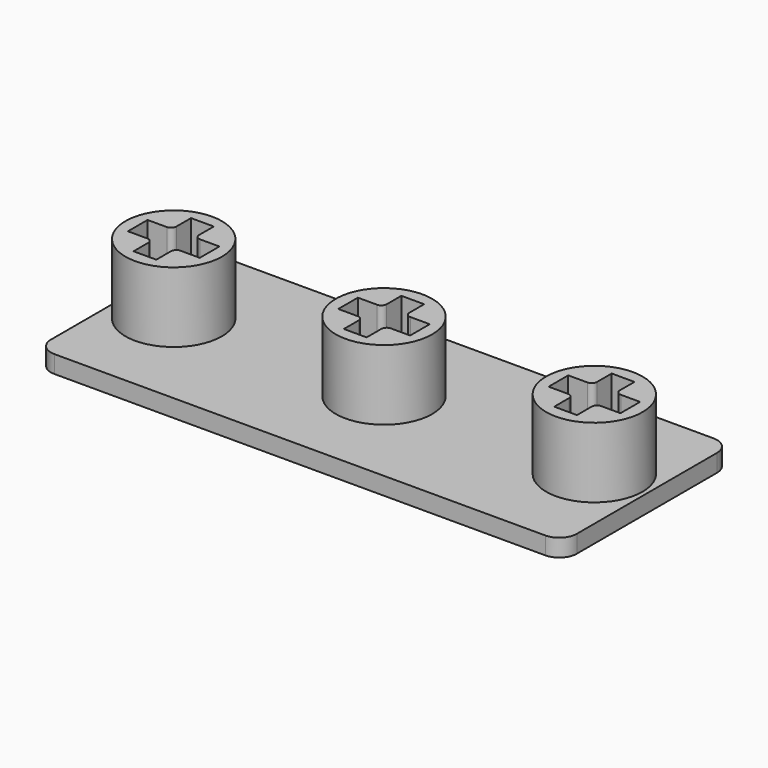
from build123d import *

# Parameters (mm, degrees)
SKETCH_W     = 30
SKETCH_H     = 12
PAD_DEPTH    = 1
SKETCH001_R  = 2.75
PAD001_DEPTH = 4
POCKET_DEPTH = 4
FILLET_R     = 0.3
FILLET001_R  = 1


with BuildPart() as part:
    # Sketch → Pad (new body)
    with BuildSketch(Plane.XY):
        Rectangle(SKETCH_W, SKETCH_H)
    extrude(amount=PAD_DEPTH)

    # Sketch001 (on Face6 of Pad) → Pad001 (join)
    with BuildSketch(Plane.XY.offset(1)):
        Circle(SKETCH001_R)
        with Locations((-12, 0)):
            Circle(SKETCH001_R)
        with Locations((12, 0)):
            Circle(SKETCH001_R)
    extrude(amount=PAD001_DEPTH)

    # Sketch002 (on Face11 of Pad001) → Pocket (cut)
    with BuildSketch(Plane.XY.offset(5)):
        Polygon((-0.65, 2.05), (-0.65, 0.7), (-2.05, 0.7), (-2.05, -0.7), (-0.65, -0.7), (-0.65, -2.05), (0.65, -2.05), (0.65, -0.7), (2.05, -0.7), (2.05, 0.7), (0.65, 0.7), (0.65, 2.05), align=None)
        Polygon((11.35, 2.05), (11.35, 0.7), (9.95, 0.7), (9.95, -0.7), (11.35, -0.7), (11.35, -2.05), (12.65, -2.05), (12.65, -0.7), (14.05, -0.7), (14.05, 0.7), (12.65, 0.7), (12.65, 2.05), align=None)
        Polygon((-12.65, 2.05), (-12.65, 0.7), (-14.05, 0.7), (-14.05, -0.7), (-12.65, -0.7), (-12.65, -2.05), (-11.35, -2.05), (-11.35, -0.7), (-9.95, -0.7), (-9.95, 0.7), (-11.35, 0.7), (-11.35, 2.05), align=None)
    extrude(amount=-POCKET_DEPTH, mode=Mode.SUBTRACT)

    # Fillet
    fillet_edges = [part.edges().sort_by_distance(p)[0] for p in [
        (-0.65, 0.7, 3),
        (0.65, 0.7, 3),
        (-12.65, 0.7, 3),
        (-11.35, 0.7, 3),
        (11.35, 0.7, 3),
        (12.65, 0.7, 3),
        (12.65, -0.7, 3),
        (11.35, -0.7, 3),
        (0.65, -0.7, 3),
        (-0.65, -0.7, 3),
        (-11.35, -0.7, 3),
        (-12.65, -0.7, 3),
    ]]
    fillet(fillet_edges, radius=FILLET_R)

    # Fillet001
    fillet001_edges = [part.edges().sort_by_distance(p)[0] for p in [
        (-15, -6, 0.5),
        (15, -6, 0.5),
        (-15, 6, 0.5),
        (15, 6, 0.5),
    ]]
    fillet(fillet001_edges, radius=FILLET001_R)


solid = part.part
